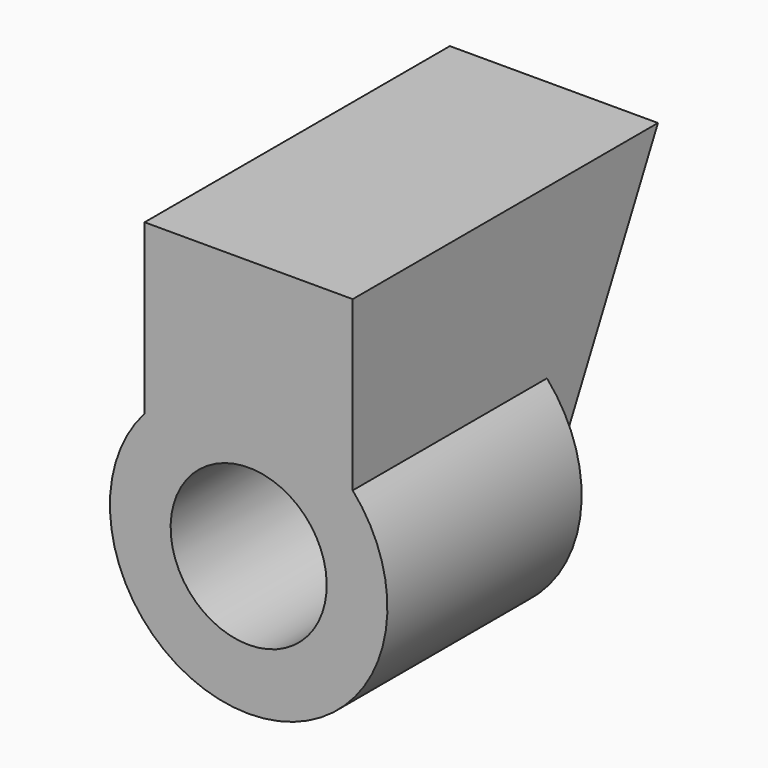
from build123d import *

# Parameters (mm, degrees)
PAD001_DEPTH    = 3
SKETCH006_R     = 4
PAD002_DEPTH    = 7
SKETCH007_R     = 2.25
POCKET002_DEPTH = 6


with BuildPart() as part:
    # Sketch005 → Pad001 (new body, symmetric)
    with BuildSketch(Plane.YZ.offset(-156.5)):
        Polygon((-81.000001, 49), (-81.000001, 41), (-74, 41), (-70, 49), align=None)
    extrude(amount=PAD001_DEPTH, both=True)

    # Sketch006 (on Face1 of Pad001) → Pad002 (join)
    with BuildSketch(Plane(origin=(0, -81.000001, 0), x_dir=(0, 0, -1), z_dir=(0, -1, 0))):
        with Locations((-41.500001, -156.500002)):
            Circle(SKETCH006_R)
    extrude(amount=-PAD002_DEPTH)

    # Sketch007 (on Face7 of Pad002) → Pocket002 (cut)
    with BuildSketch(Plane(origin=(0, -81.000001, 0), x_dir=(0, 0, -1), z_dir=(0, -1, 0))):
        with Locations((-41.500001, -156.500002)):
            Circle(SKETCH007_R)
    extrude(amount=-POCKET002_DEPTH, mode=Mode.SUBTRACT)


solid = part.part
